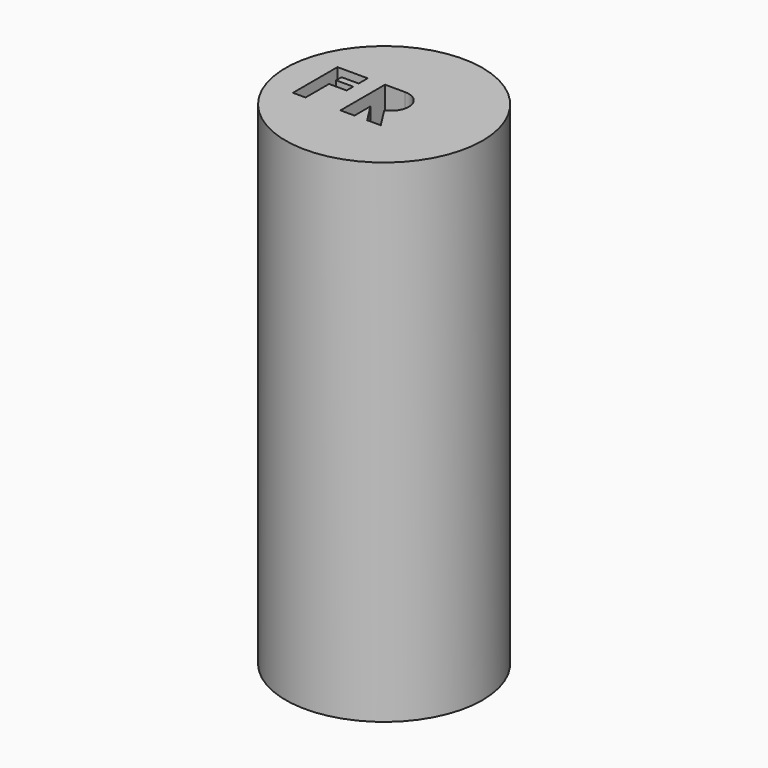
from build123d import *

# Parameters (mm, degrees)
F0_R     = 5.08
F1_DEPTH = 25.4
F3_DEPTH = 5.08


with BuildPart() as f1:
    # F0 (on Top) → F1 (new body)
    with BuildSketch(Plane.XY):
        Circle(F0_R)
    extrude(amount=F1_DEPTH)

    # F2 (on face) → F3 (cut)
    with BuildSketch(Plane.XY.offset(25.4)):
        Polygon((-3.493968, 1.360344), (-3.493968, -1.511888), (-2.840127, -1.511888), (-2.840127, 0), (-1.933453, 0), (-1.933453, 0.426284), (-2.816775, 0.426284), (-2.816775, 0.776557), (-1.933453, 0.776557), (-1.933453, 1.360344), align=None)
        with BuildLine():
            Line((0, 1.360344), (-1.042063, 1.360344))
            Line((-1.042063, 1.360344), (-1.042063, -1.511888))
            Line((-1.042063, -1.511888), (-0.318167, -1.511888))
            Line((-0.318167, -1.511888), (-0.318167, -0.484423))
            Line((-0.318167, -0.484423), (0.335674, -1.511888))
            Line((0.335674, -1.511888), (1.036218, -1.511888))
            Line((1.036218, -1.511888), (0.330819, -0.403403))
            ThreePointArc((0.330819, -0.403403), (0.897252, 0.615739), (0, 1.360344))
        make_face()
    extrude(amount=-F3_DEPTH, mode=Mode.SUBTRACT)


solid = f1.part
